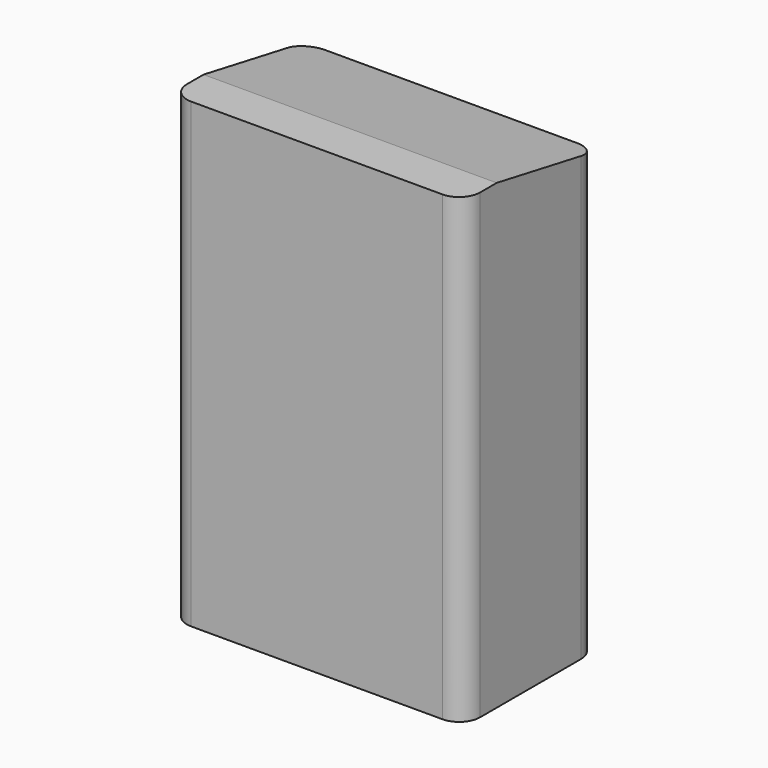
from build123d import *

# Parameters (mm, degrees)
F1_DEPTH = 110
F3_DEPTH = 69.792666


with BuildPart() as f1:
    # F0 (on Top) → F1 (new body)
    with BuildSketch(Plane.XY):
        with BuildLine():
            ThreePointArc((-34.895833, -15), (-33.431367, -18.535534), (-29.895833, -20))
            Line((-29.895833, -20), (29.895833, -20))
            ThreePointArc((29.895833, -20), (33.431367, -18.535534), (34.895833, -15))
            Line((34.895833, -15), (34.895833, 15))
            ThreePointArc((34.895833, 15), (33.431367, 18.535534), (29.895833, 20))
            Line((29.895833, 20), (-29.895833, 20))
            ThreePointArc((-29.895833, 20), (-33.431367, 18.535534), (-34.895833, 15))
            Line((-34.895833, 15), (-34.895833, -15))
        make_face()
    extrude(amount=F1_DEPTH)

    # F2 (on face) → F3 (cut, through all)
    with BuildSketch(Plane(origin=(-34.895833, 0, 0), x_dir=(0, -1, 0), z_dir=(-1, 0, 0))):
        Polygon((-20.880114, 110), (-20.880114, 104.359761), (10.082219, 110), align=None)
    extrude(amount=-F3_DEPTH, mode=Mode.SUBTRACT)


solid = f1.part
